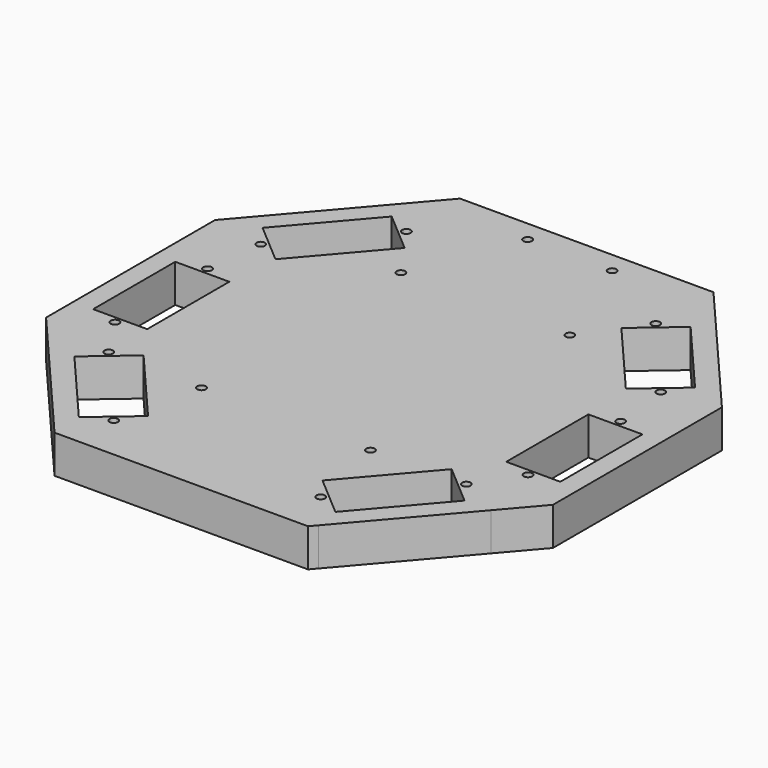
from build123d import *

# Parameters (mm, degrees)
F0_R     = 1
F0_W     = 12.8
F0_H     = 4.05
F1_DEPTH = 9
F2_DEPTH = 4


with BuildPart() as f1:
    # F0 (on Top) → F1 (new body)
    with BuildSketch(Plane.XY):
        Polygon((-40, -21), (-40, -25), (-32.387223, -33.881573), (-28.818717, -30.822853), (-19.100233, -22.492724), (-16.464528, -25.567713), (-0.650297, -44.017649), (1.985408, -47.092638), (-7.733077, -55.422767), (-11.301583, -58.481487), (-10, -60), (20, -60), (20, 60), (-10, 60), (-16.311194, 52.63694), (-12.742688, 49.578221), (-3.024203, 41.248091), (-5.659909, 38.173102), (-21.474139, 19.723167), (-24.109844, 16.648177), (-33.828328, 24.978307), (-37.396835, 28.037026), (-40, 25), (-40, 11.4), (-35.3, 11.4), (-22.5, 11.4), (-22.5, 7.35), (-22.5, -16.95), (-22.5, -21), (-35.3, -21), align=None)
        with Locations((0, -29)):
            Circle(F0_R, mode=Mode.SUBTRACT)
        with Locations((0, 30)):
            Circle(F0_R, mode=Mode.SUBTRACT)
        with Locations((10, 55)):
            Circle(F0_R, mode=Mode.SUBTRACT)
        Polygon((-40, 11.4), (-40, -21), (-35.3, -21), (-35.3, -16.95), (-35.3, 7.35), (-35.3, 11.4), align=None)
        Polygon((-28.818717, -30.822853), (-32.387223, -33.881573), (-11.301583, -58.481487), (-7.733077, -55.422767), (-10.368782, -52.347778), (-26.183012, -33.897843), align=None)
        Polygon((-16.311194, 52.63694), (-37.396835, 28.037026), (-33.828328, 24.978307), (-31.192623, 28.053296), (-15.378393, 46.503232), (-12.742688, 49.578221), align=None)
        Polygon((-10.368782, -52.347778), (-7.733077, -55.422767), (1.985408, -47.092638), (-0.650297, -44.017649), align=None)
        with Locations((-4.500813, -49.359561)):
            Circle(F0_R, mode=Mode.SUBTRACT)
        Polygon((-19.100233, -22.492724), (-28.818717, -30.822853), (-26.183012, -33.897843), (-16.464528, -25.567713), align=None)
        with Locations((-22.332497, -28.55593)):
            Circle(F0_R, mode=Mode.SUBTRACT)
        with Locations((-28.9, -18.975)):
            Rectangle(F0_W, F0_H)
        with Locations((-28.9, -18.5)):
            Circle(F0_R, mode=Mode.SUBTRACT)
        with Locations((-28.9, 9.375)):
            Rectangle(F0_W, F0_H)
        with Locations((-28.9, 8.9)):
            Circle(F0_R, mode=Mode.SUBTRACT)
        Polygon((-3.024203, 41.248091), (-12.742688, 49.578221), (-15.378393, 46.503232), (-5.659909, 38.173102), align=None)
        with Locations((-9.510424, 43.515015)):
            Circle(F0_R, mode=Mode.SUBTRACT)
        Polygon((-31.192623, 28.053296), (-33.828328, 24.978307), (-24.109844, 16.648177), (-21.474139, 19.723167), align=None)
        with Locations((-27.342108, 22.711384)):
            Circle(F0_R, mode=Mode.SUBTRACT)
    extrude(amount=F1_DEPTH)

    # F0 (on Top) → F2 (join)
    with BuildSketch(Plane.XY):
        with Locations((-9.510424, 43.515015)):
            Circle(F0_R)
        with Locations((-27.342108, 22.711384)):
            Circle(F0_R)
        with Locations((-28.9, 8.9)):
            Circle(F0_R)
        with Locations((-28.9, -18.5)):
            Circle(F0_R)
        with Locations((-22.332497, -28.55593)):
            Circle(F0_R)
        with Locations((-4.500813, -49.359561)):
            Circle(F0_R)
    extrude(amount=F2_DEPTH)

    # F3: F1 across face


with BuildPart() as f1_1:
    add(f1.part)
    add(f1.part.mirror(Plane(origin=(20, 0, 4.5), x_dir=(0, 1, 0), z_dir=(1, 0, 0))))


solid = f1_1.part
